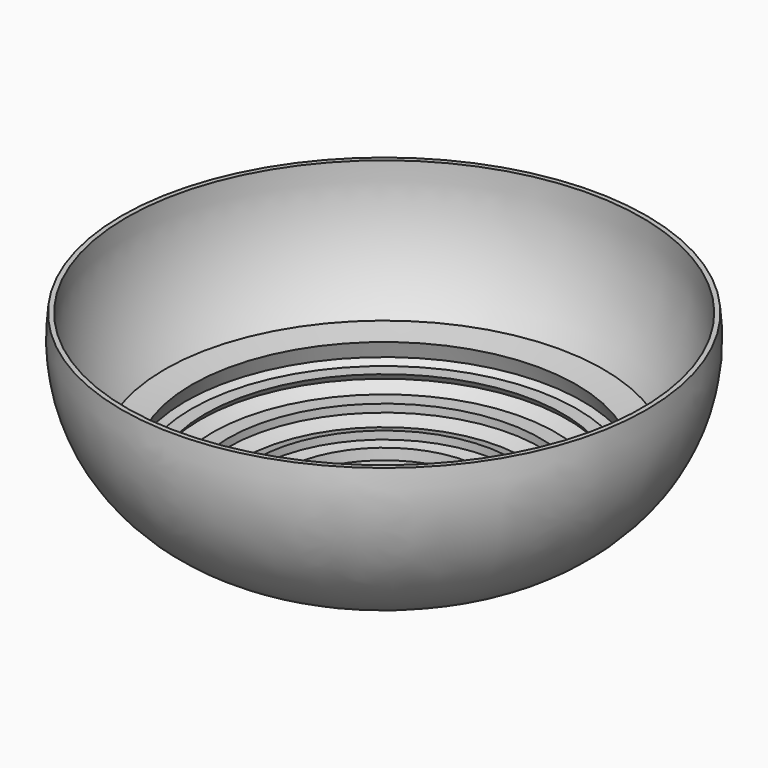
from build123d import *


with BuildPart() as f1:
    # F0 (on Front) → F1 (revolve)
    with BuildSketch(Plane.XZ):
        with BuildLine():
            Line((-40.307138, 13.619354), (-45.940418, 14.637468))
            ThreePointArc((-45.940418, 14.637468), (-43.859438, 12.310496), (-41.584688, 10.172556))
            Line((-41.584688, 10.172556), (-40.307138, 13.619354))
        make_face()
        with BuildLine():
            Line((-37.478112, 9.161719), (-40.357301, 9.161719))
            ThreePointArc((-40.357301, 9.161719), (-39.436433, 8.460529), (-38.493499, 7.789305))
            Line((-38.493499, 7.789305), (-37.478112, 9.161719))
        make_face()
        with BuildLine():
            Line((-32.717026, 6.213819), (-35.988614, 6.213819))
            ThreePointArc((-35.988614, 6.213819), (-34.373968, 5.342502), (-32.717026, 4.554581))
            Line((-32.717026, 4.554581), (-32.717026, 6.213819))
        make_face()
        with BuildLine():
            ThreePointArc((-29.775222, 3.398379), (-28.384993, 2.952613), (-26.977832, 2.563581))
            Line((-26.977832, 2.563581), (-26.977832, 4.233708))
            Line((-26.977832, 4.233708), (-29.775222, 3.398379))
        make_face()
        with BuildLine():
            ThreePointArc((-23.872685, 1.916716), (-22.675966, 1.742554), (-21.474073, 1.608684))
            Line((-21.474073, 1.608684), (-21.64194, 3.846907))
            Line((-21.64194, 3.846907), (-23.872685, 1.916716))
        make_face()
        with BuildLine():
            Line((-54, 40), (-55, 40))
            ThreePointArc((-55, 40), (-46.587836, 12.048143), (-20, 0))
            Line((-20, 0), (-20, 1.5))
            ThreePointArc((-20, 1.5), (-20.737594, 1.546776), (-21.474073, 1.608684))
            ThreePointArc((-21.474073, 1.608684), (-22.675966, 1.742554), (-23.872685, 1.916716))
            ThreePointArc((-23.872685, 1.916716), (-25.432386, 2.205934), (-26.977832, 2.563581))
            ThreePointArc((-26.977832, 2.563581), (-28.384993, 2.952613), (-29.775222, 3.398379))
            ThreePointArc((-29.775222, 3.398379), (-31.25882, 3.944178), (-32.717026, 4.554581))
            ThreePointArc((-32.717026, 4.554581), (-34.373968, 5.342502), (-35.988614, 6.213819))
            ThreePointArc((-35.988614, 6.213819), (-37.257251, 6.975814), (-38.493499, 7.789305))
            ThreePointArc((-38.493499, 7.789305), (-39.436433, 8.460529), (-40.357301, 9.161719))
            ThreePointArc((-40.357301, 9.161719), (-40.976576, 9.66036), (-41.584688, 10.172556))
            ThreePointArc((-41.584688, 10.172556), (-43.859438, 12.310496), (-45.940418, 14.637468))
            ThreePointArc((-45.940418, 14.637468), (-52.399831, 26.54666), (-54, 40))
        make_face()
        Polygon((-20, 1.5), (-20, 0), (0, 0), (0, 3), align=None)
    revolve(axis=Axis((0, 0, 1.5), (0, 0, 1)))


solid = f1.part
